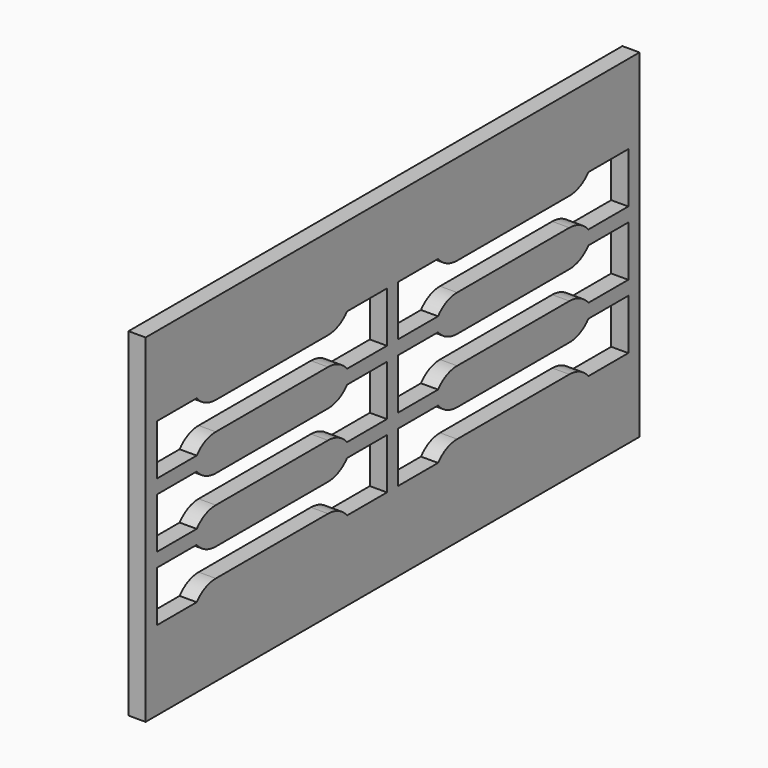
from build123d import *

# Parameters (mm, degrees)
F1_DEPTH = 110
F3_DEPTH = 6.1
F4_W     = 220
F4_H     = 15.7
F5_DEPTH = 100


with BuildPart() as f1:
    # F0 (on Front) → F1 (new body, symmetric)
    with BuildSketch(Plane.XZ):
        with BuildLine():
            ThreePointArc((11.95, -69.2), (5.6567496474, -66.5932503526), (3.05, -60.3))
            Line((3.05, -60.3), (3.05, 60.3))
            ThreePointArc((3.05, 60.3), (5.6567496474, 66.5932503526), (11.95, 69.2))
            Line((11.95, 69.2), (76, 69.2))
            Line((76, 69.2), (76, 76))
            Line((76, 76), (-76, 76))
            Line((-76, 76), (-76, 69.2))
            Line((-76, 69.2), (-11.95, 69.2))
            ThreePointArc((-11.95, 69.2), (-5.6567496474, 66.5932503526), (-3.05, 60.3))
            Line((-3.05, 60.3), (-3.05, -60.3))
            ThreePointArc((-3.05, -60.3), (-5.6567496474, -66.5932503526), (-11.95, -69.2))
            Line((-11.95, -69.2), (-76, -69.2))
            Line((-76, -69.2), (-76, -76))
            Line((-76, -76), (76, -76))
            Line((76, -76), (76, -69.2))
            Line((76, -69.2), (11.95, -69.2))
        make_face()
    extrude(amount=F1_DEPTH, both=True)

    # F2 (on face) → F3 (cut)
    with BuildSketch(Plane.YZ.offset(3.05)):
        with BuildLine():
            Line((-20.2647186258, -9), (-2.5, -9))
            Line((-2.5, -9), (-2.5, 9))
            Line((-2.5, 9), (-20.2647186258, 9))
            ThreePointArc((-20.2647186258, 9), (-24.0595842402, 6.0501256289), (-28.75, 5))
            Line((-28.75, 5), (-78.75, 5))
            ThreePointArc((-78.75, 5), (-83.4404157598, 6.0501256289), (-87.2352813742, 9))
            Line((-87.2352813742, 9), (-105, 9))
            Line((-105, 9), (-105, -9))
            Line((-105, -9), (-87.2352813742, -9))
            ThreePointArc((-87.2352813742, -9), (-83.4404157598, -6.0501256289), (-78.75, -5))
            Line((-78.75, -5), (-28.75, -5))
            ThreePointArc((-28.75, -5), (-24.0595842402, -6.0501256289), (-20.2647186258, -9))
        make_face()
        with BuildLine():
            ThreePointArc((-20.2647186258, 32), (-24.0595842402, 29.0501256289), (-28.75, 28))
            Line((-28.75, 28), (-78.75, 28))
            ThreePointArc((-78.75, 28), (-83.4404157598, 29.0501256289), (-87.2352813742, 32))
            Line((-87.2352813742, 32), (-105, 32))
            Line((-105, 32), (-105, 14))
            Line((-105, 14), (-87.2352813742, 14))
            ThreePointArc((-87.2352813742, 14), (-83.4404157598, 16.9498743711), (-78.75, 18))
            Line((-78.75, 18), (-28.75, 18))
            ThreePointArc((-28.75, 18), (-24.0595842402, 16.9498743711), (-20.2647186258, 14))
            Line((-20.2647186258, 14), (-2.5, 14))
            Line((-2.5, 14), (-2.5, 32))
            Line((-2.5, 32), (-20.2647186258, 32))
        make_face()
        with BuildLine():
            ThreePointArc((-28.75, -28), (-24.0595842402, -29.0501256289), (-20.2647186258, -32))
            Line((-20.2647186258, -32), (-2.5, -32))
            Line((-2.5, -32), (-2.5, -14))
            Line((-2.5, -14), (-20.2647186258, -14))
            ThreePointArc((-20.2647186258, -14), (-24.0595842402, -16.9498743711), (-28.75, -18))
            Line((-28.75, -18), (-78.75, -18))
            ThreePointArc((-78.75, -18), (-83.4404157598, -16.9498743711), (-87.2352813742, -14))
            Line((-87.2352813742, -14), (-105, -14))
            Line((-105, -14), (-105, -32))
            Line((-105, -32), (-87.2352813742, -32))
            ThreePointArc((-87.2352813742, -32), (-83.4404157598, -29.0501256289), (-78.75, -28))
            Line((-78.75, -28), (-28.75, -28))
        make_face()
        with BuildLine():
            Line((78.75, 28), (28.75, 28))
            ThreePointArc((28.75, 28), (24.0595842402, 29.0501256289), (20.2647186258, 32))
            Line((20.2647186258, 32), (2.5, 32))
            Line((2.5, 32), (2.5, 14))
            Line((2.5, 14), (20.2647186258, 14))
            ThreePointArc((20.2647186258, 14), (24.0595842402, 16.9498743711), (28.75, 18))
            Line((28.75, 18), (78.75, 18))
            ThreePointArc((78.75, 18), (83.4404157598, 16.9498743711), (87.2352813742, 14))
            Line((87.2352813742, 14), (105, 14))
            Line((105, 14), (105, 32))
            Line((105, 32), (87.2352813742, 32))
            ThreePointArc((87.2352813742, 32), (83.4404157598, 29.0501256289), (78.75, 28))
        make_face()
        with BuildLine():
            ThreePointArc((20.2647186258, -32), (24.0595842402, -29.0501256289), (28.75, -28))
            Line((28.75, -28), (78.75, -28))
            ThreePointArc((78.75, -28), (83.4404157598, -29.0501256289), (87.2352813742, -32))
            Line((87.2352813742, -32), (105, -32))
            Line((105, -32), (105, -14))
            Line((105, -14), (87.2352813742, -14))
            ThreePointArc((87.2352813742, -14), (83.4404157598, -16.9498743711), (78.75, -18))
            Line((78.75, -18), (28.75, -18))
            ThreePointArc((28.75, -18), (24.0595842402, -16.9498743711), (20.2647186258, -14))
            Line((20.2647186258, -14), (2.5, -14))
            Line((2.5, -14), (2.5, -32))
            Line((2.5, -32), (20.2647186258, -32))
        make_face()
        with BuildLine():
            ThreePointArc((20.2647186258, -9), (24.0595842402, -6.0501256289), (28.75, -5))
            Line((28.75, -5), (78.75, -5))
            ThreePointArc((78.75, -5), (83.4404157598, -6.0501256289), (87.2352813742, -9))
            Line((87.2352813742, -9), (105, -9))
            Line((105, -9), (105, 9))
            Line((105, 9), (87.2352813742, 9))
            ThreePointArc((87.2352813742, 9), (83.4404157598, 6.0501256289), (78.75, 5))
            Line((78.75, 5), (28.75, 5))
            ThreePointArc((28.75, 5), (24.0595842402, 6.0501256289), (20.2647186258, 9))
            Line((20.2647186258, 9), (2.5, 9))
            Line((2.5, 9), (2.5, -9))
            Line((2.5, -9), (20.2647186258, -9))
        make_face()
    extrude(amount=-F3_DEPTH, mode=Mode.SUBTRACT)

    # F4 (on face) → F5 (cut, symmetric)
    with BuildSketch(Plane.YZ.offset(3.05)):
        with Locations((0, 68.15)):
            Rectangle(F4_W, F4_H)
        with Locations((0, -68.15)):
            Rectangle(F4_W, F4_H)
    extrude(amount=F5_DEPTH, both=True, mode=Mode.SUBTRACT)


solid = f1.part
